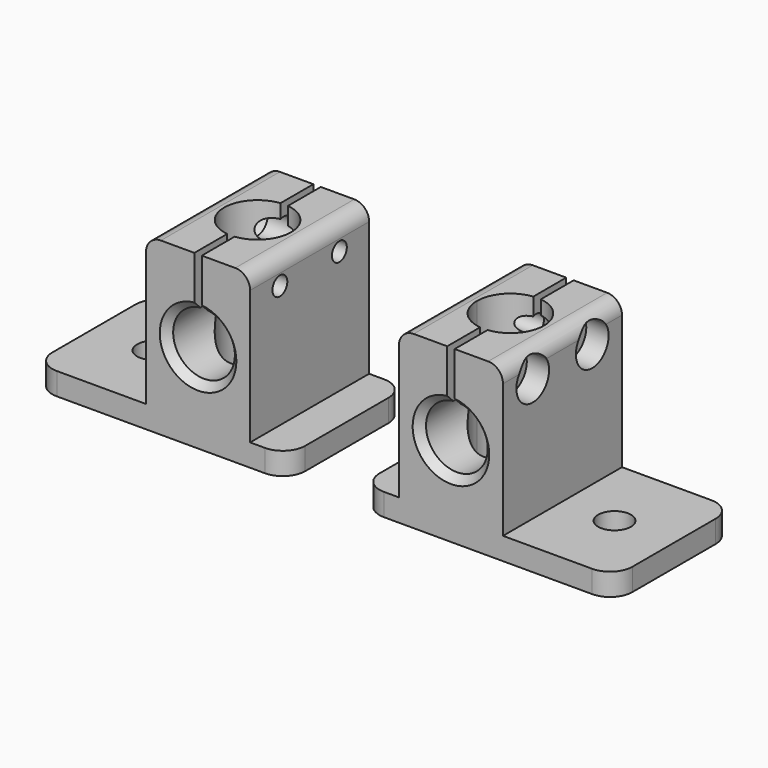
from build123d import *

# Parameters (mm, degrees)
F1_DEPTH  = 10
F2_SIZE   = 1
F3_R      = 3
F5_DEPTH  = 20
F6_R      = 2.2
F7_DEPTH  = 3.001
F8_R      = 1.25
F9_DEPTH  = 19.001
F10_DEPTH = 6.5
F11_DEPTH = 3


with BuildPart() as f1:
    # F0 (on Front) → F1 (new body, symmetric)
    with BuildSketch(Plane.XZ):
        with BuildLine():
            Line((-22, 3), (-22, 0))
            Line((-22, 0), (12, 0))
            Line((12, 0), (12, 3))
            Line((12, 3), (7, 3))
            Line((7, 3), (7, 21))
            ThreePointArc((7, 21), (6.4142135624, 22.4142135624), (5, 23))
            Line((5, 23), (0.5, 23))
            Line((0.5, 23), (0.5, 16.119769411))
            ThreePointArc((0.5, 16.119769411), (0, 7.85), (-0.5, 16.119769411))
            Line((-0.5, 16.119769411), (-0.5, 23))
            Line((-0.5, 23), (-5, 23))
            ThreePointArc((-5, 23), (-6.4142135624, 22.4142135624), (-7, 21))
            Line((-7, 21), (-7, 3))
            Line((-7, 3), (-22, 3))
        make_face()
    extrude(amount=F1_DEPTH, both=True)

    # F2
    f2_edges = [f1.edges().sort_by_distance(p)[0] for p in [
        (0, -10, 7.85),
        (0, 10, 7.85),
    ]]
    chamfer(f2_edges, length=F2_SIZE)

    # F3
    f3_edges = [f1.edges().sort_by_distance(p)[0] for p in [
        (-22, -10, 1.5),
        (12, -10, 1.5),
        (12, 10, 1.5),
        (-22, 10, 1.5),
    ]]
    fillet(f3_edges, radius=F3_R)

    # F4 (on face) → F5 (cut, through all)
    with BuildSketch(Plane.XY.offset(23)):
        with BuildLine():
            ThreePointArc((-0.5, -4.472135955), (3, -3.3541019662), (4.5, 0))
            ThreePointArc((4.5, 0), (3, 3.3541019662), (-0.5, 4.472135955))
            Line((-0.5, 4.472135955), (-0.5, -4.472135955))
        make_face()
        with BuildLine():
            Line((-0.5, -4.472135955), (-0.5, 4.472135955))
            ThreePointArc((-0.5, 4.472135955), (-4.5, 0), (-0.5, -4.472135955))
        make_face()
    extrude(amount=-F5_DEPTH, mode=Mode.SUBTRACT)

    # F6 (on face) → F7 (cut, through all)
    with BuildSketch(Plane.XY.offset(3)):
        with Locations((-14, 0)):
            Circle(F6_R)
        Circle(F6_R)
    extrude(amount=-F7_DEPTH, mode=Mode.SUBTRACT)

    # F8 (on face) → F9 (cut, through all)
    with BuildSketch(Plane(origin=(-7, 0, 0), x_dir=(0, -1, 0), z_dir=(-1, 0, 0))):
        with Locations((-5, 19.5)):
            Circle(F8_R)
        with Locations((5, 19.5)):
            Circle(F8_R)
    extrude(amount=-F9_DEPTH, mode=Mode.SUBTRACT)

    # F8 (on face) → F10 (cut, through all)
    with BuildSketch(Plane(origin=(-7, 0, 0), x_dir=(0, -1, 0), z_dir=(-1, 0, 0))):
        with BuildLine():
            ThreePointArc((-5.8, 21), (-5.8746427842, 18.0422620263), (-3.3, 19.5))
            ThreePointArc((-3.3, 19.5), (-3.5422620263, 20.3746427842), (-4.2, 21))
            Line((-4.2, 21), (-5.8, 21))
        make_face()
        with Locations((-5, 19.5)):
            Circle(F8_R, mode=Mode.SUBTRACT)
        with BuildLine():
            Line((5.8, 21), (4.2, 21))
            ThreePointArc((4.2, 21), (4.1253572158, 18.0422620263), (6.7, 19.5))
            ThreePointArc((6.7, 19.5), (6.4577379737, 20.3746427842), (5.8, 21))
        make_face()
        with Locations((5, 19.5)):
            Circle(F8_R, mode=Mode.SUBTRACT)
        with BuildLine():
            ThreePointArc((5.8, 21), (5, 21.2), (4.2, 21))
            Line((4.2, 21), (5.8, 21))
        make_face()
        with BuildLine():
            Line((-5.8, 21), (-4.2, 21))
            ThreePointArc((-4.2, 21), (-5, 21.2), (-5.8, 21))
        make_face()
    extrude(amount=-F10_DEPTH, mode=Mode.SUBTRACT)

    # F8 (on face) → F11 (cut)
    with BuildSketch(Plane(origin=(-7, 0, 0), x_dir=(0, -1, 0), z_dir=(-1, 0, 0))):
        with BuildLine():
            Line((4.2, 21), (2.6951138857, 21))
            ThreePointArc((2.6951138857, 21), (4.2176755195, 16.8636258977), (7.75, 19.5))
            ThreePointArc((7.75, 19.5), (7.6363741023, 20.2823244805), (7.3048861143, 21))
            Line((7.3048861143, 21), (5.8, 21))
            ThreePointArc((5.8, 21), (6.4577379737, 20.3746427842), (6.7, 19.5))
            ThreePointArc((6.7, 19.5), (4.1253572158, 18.0422620263), (4.2, 21))
        make_face()
        with BuildLine():
            ThreePointArc((7.3048861143, 21), (5, 22.25), (2.6951138857, 21))
            Line((2.6951138857, 21), (4.2, 21))
            ThreePointArc((4.2, 21), (5, 21.2), (5.8, 21))
            Line((5.8, 21), (7.3048861143, 21))
        make_face()
        with BuildLine():
            ThreePointArc((-4.2, 21), (-3.5422620263, 20.3746427842), (-3.3, 19.5))
            ThreePointArc((-3.3, 19.5), (-5.8746427842, 18.0422620263), (-5.8, 21))
            Line((-5.8, 21), (-7.3048861143, 21))
            ThreePointArc((-7.3048861143, 21), (-5.7823244805, 16.8636258977), (-2.25, 19.5))
            ThreePointArc((-2.25, 19.5), (-2.3636258977, 20.2823244805), (-2.6951138857, 21))
            Line((-2.6951138857, 21), (-4.2, 21))
        make_face()
        with BuildLine():
            ThreePointArc((-5.8, 21), (-5, 21.2), (-4.2, 21))
            Line((-4.2, 21), (-2.6951138857, 21))
            ThreePointArc((-2.6951138857, 21), (-5, 22.25), (-7.3048861143, 21))
            Line((-7.3048861143, 21), (-5.8, 21))
        make_face()
        with BuildLine():
            ThreePointArc((5.8, 21), (5, 21.2), (4.2, 21))
            Line((4.2, 21), (5.8, 21))
        make_face()
        with BuildLine():
            Line((-5.8, 21), (-4.2, 21))
            ThreePointArc((-4.2, 21), (-5, 21.2), (-5.8, 21))
        make_face()
    extrude(amount=-F11_DEPTH, mode=Mode.SUBTRACT)


with BuildPart() as f12_1:
    # F12: instance of F1
    add(f1.part.mirror(Plane(origin=(12, 0, 1.5), x_dir=(0, 1, 0), z_dir=(1, 0, 0))))


with BuildPart() as f12_1_1:
    # F13: moved
    add(f12_1.part.moved(Location((10, 0, 0))))


solid = Compound([f1.part, f12_1_1.part])
